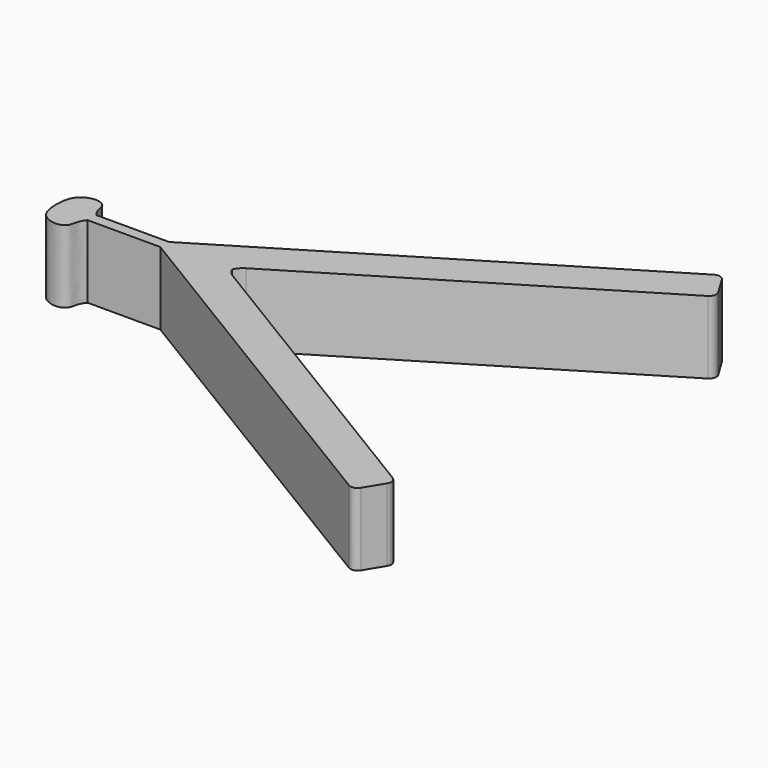
from build123d import *

# Parameters (mm, degrees)
F1_DEPTH = 20


with BuildPart() as f1:
    # F0 (on Top) → F1 (new body)
    with BuildSketch(Plane.XY):
        with BuildLine():
            ThreePointArc((106.0655760263, 54.1696647247), (106.9706724609, 55.4041468811), (106.7377615834, 56.9170574117))
            Line((106.7377615834, 56.9170574117), (103.6249508884, 62.0464247779))
            ThreePointArc((103.6249508884, 62.0464247779), (102.3904687319, 62.9515212125), (100.8775582013, 62.7186103349))
            Line((100.8775582013, 62.7186103349), (0, 1.5))
            Line((0, 1.5), (-20, 1.5))
            add(Edge.make_bspline(
                [(-29.8233889043, 0), (-29.8233889043, 1.661147025), (-29.3711235815, 5.7722360442), (-24.2359312024, 7.5721457304), (-21.0059400714, 5.8173947763), (-21.5071995604, 3.3463318732), (-20, 1.5)],
                knots=[0, 0, 0, 0, 0.2794465231, 0.5412573651, 0.741887728, 1, 1, 1, 1], degree=3))
            add(Edge.make_bspline(
                [(-29.8233889043, 0), (-29.8233889043, -1.661147025), (-29.3711235815, -5.7722360442), (-24.2359312024, -7.5721457304), (-21.0059400714, -5.8173947763), (-21.5071995604, -3.3463318732), (-20, -1.5)],
                knots=[0, 0, 0, 0, 0.2794465231, 0.5412573651, 0.741887728, 1, 1, 1, 1], degree=3))
            Line((-20, -1.5), (0, -1.5))
            Line((0, -1.5), (100.8775582013, -62.7186103349))
            ThreePointArc((100.8775582013, -62.7186103349), (102.3904687319, -62.9515212125), (103.6249508884, -62.0464247779))
            Line((103.6249508884, -62.0464247779), (106.7377615834, -56.9170574117))
            ThreePointArc((106.7377615834, -56.9170574117), (106.9706724609, -55.4041468811), (106.0655760263, -54.1696647247))
            Line((106.0655760263, -54.1696647247), (20.5688379868, -2.2850673546))
            ThreePointArc((20.5688379868, -2.2850673546), (19.394854118, -1.2972692215), (18.5756619288, 0))
            ThreePointArc((18.5756619288, 0), (19.394854118, 1.2972692215), (20.5688379868, 2.2850673546))
            Line((20.5688379868, 2.2850673546), (106.0655760263, 54.1696647247))
        make_face()
        with BuildLine():
            ThreePointArc((18.1628468993, 1.9894054505), (18.2671383269, 0.9735129494), (18.5756619288, 0))
            ThreePointArc((18.5756619288, 0), (18.2671383269, -0.9735129494), (18.1628468993, -1.9894054505))
            Line((18.1628468993, -1.9894054505), (18.1628468993, 0))
            Line((18.1628468993, 0), (18.1628468993, 1.9894054505))
        make_face(mode=Mode.SUBTRACT)
        with BuildLine():
            ThreePointArc((18.1628468993, -1.9894054505), (18.2671383269, -0.9735129494), (18.5756619288, 0))
            ThreePointArc((18.5756619288, 0), (18.2671383269, 0.9735129494), (18.1628468993, 1.9894054505))
            Line((18.1628468993, 1.9894054505), (18.1628468993, 0))
            Line((18.1628468993, 0), (18.1628468993, -1.9894054505))
        make_face()
    extrude(amount=F1_DEPTH)


solid = f1.part
